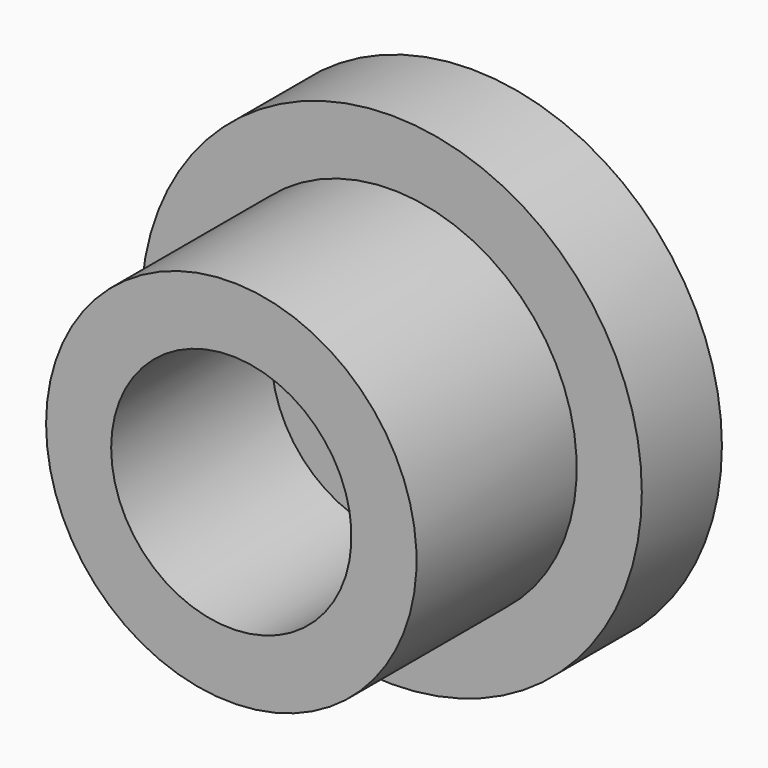
from build123d import *

# Parameters (mm, degrees)
F0_R     = 12.5
F1_DEPTH = 5
F2_R     = 9.25
F2_R_2   = 6
F3_DEPTH = 15


with BuildPart() as f1:
    # F0 (on Front) → F1 (new body)
    with BuildSketch(Plane.XZ):
        Circle(F0_R)
    extrude(amount=-F1_DEPTH)

    # F2 (on face) → F3 (join)
    with BuildSketch(Plane(origin=(0, 5, 0), x_dir=(-1, 0, 0), z_dir=(0, 1, 0))):
        Circle(F2_R)
        Circle(F2_R_2, mode=Mode.SUBTRACT)
    extrude(amount=-F3_DEPTH)


solid = f1.part
